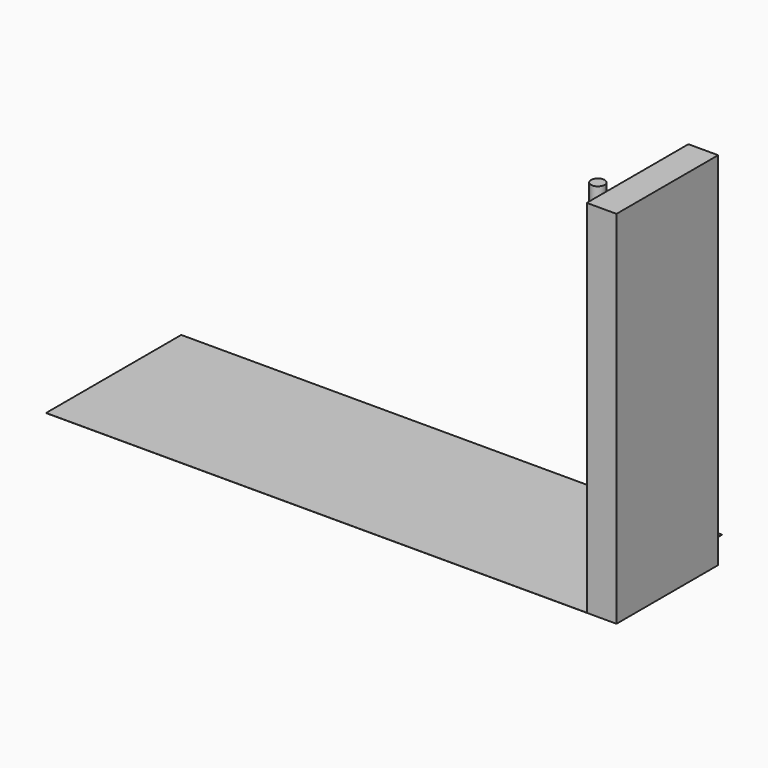
from build123d import *

# Parameters (mm, degrees)
F0_R     = 50
F1_DEPTH = 1
F0_W     = 220
F0_H     = 940
F2_DEPTH = 2670


with BuildPart() as f1:
    # F0 (on Top) → F1 (new body)
    with BuildSketch(Plane.XY):
        Polygon((0, 0), (-4000, 0), (-4000, -1250), (0, -1250), (0, -310), align=None)
        with Locations((-110, -1010)):
            Circle(F0_R, mode=Mode.SUBTRACT)
    extrude(amount=F1_DEPTH)

    # F0 (on Top) → F2 (join)
    with BuildSketch(Plane.XY):
        with Locations((110, -780)):
            Rectangle(F0_W, F0_H)
        with Locations((-110, -1010)):
            Circle(F0_R)
    extrude(amount=F2_DEPTH)


solid = f1.part
